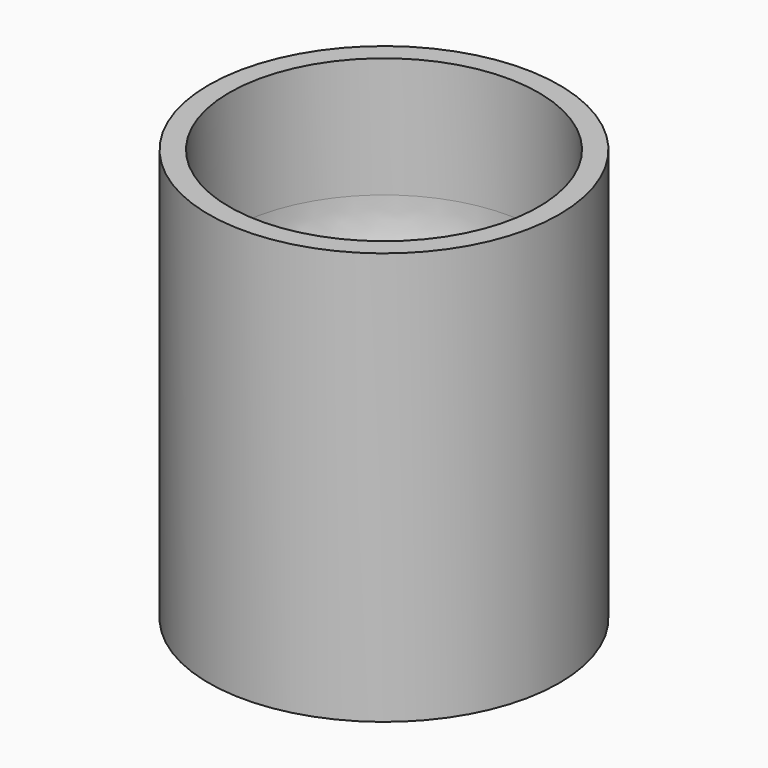
from build123d import *


with BuildPart() as f1:
    # F0 (on Front) → F1 (revolve)
    with BuildSketch(Plane.XZ):
        with BuildLine():
            ThreePointArc((0, -22.5), (-15.909903, -15.909903), (-22.5, 0))
            Line((-22.5, 0), (-22.5, 17.5))
            Line((-22.5, 17.5), (-25.5, 17.5))
            Line((-25.5, 17.5), (-25.5, -42.5))
            Line((-25.5, -42.5), (0, -42.5))
            Line((0, -42.5), (0, -22.5))
        make_face()
    revolve(axis=Axis((0, 0, -32.5), (0, 0, 1)))


solid = f1.part
